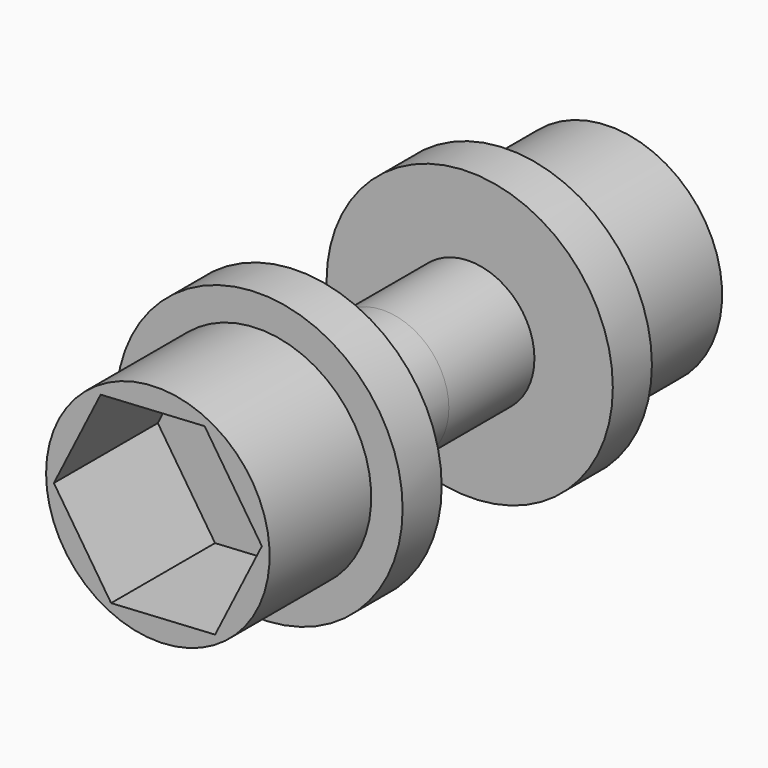
from build123d import *

# Parameters (mm, degrees)
F0_R     = 74.446601
F1_DEPTH = 25.4
F2_R     = 58.130128
F3_DEPTH = 66.04
F5_DEPTH = 67.564
F6_R     = 33.669878
F7_DEPTH = 55.626


with BuildPart() as f1:
    # F0 (on Front) → F1 (new body)
    with BuildSketch(Plane.XZ):
        Circle(F0_R)
    extrude(amount=F1_DEPTH)

    # F2 (on face) → F3 (join)
    with BuildSketch(Plane(origin=(0, 0, 0), x_dir=(-1, 0, 0), z_dir=(0, 1, 0))):
        Circle(F2_R)
    extrude(amount=F3_DEPTH)

    # F4 (on face) → F5 (cut)
    with BuildSketch(Plane(origin=(0, 66.04, 0), x_dir=(-1, 0, 0), z_dir=(0, 1, 0))):
        Polygon((24.31692, -48.409281), (54.082127, -3.14557), (29.765207, 45.263711), (-24.31692, 48.409281), (-54.082127, 3.14557), (-29.765207, -45.263711), align=None)
    extrude(amount=-F5_DEPTH, mode=Mode.SUBTRACT)

    # F6 (on face) → F7 (join)
    with BuildSketch(Plane.XZ.offset(25.4)):
        Circle(F6_R)
    extrude(amount=F7_DEPTH)

    # F8: F1 across face


with BuildPart() as f1_1:
    add(f1.part)
    add(f1.part.mirror(Plane.XZ.offset(81.026)))


solid = f1_1.part
